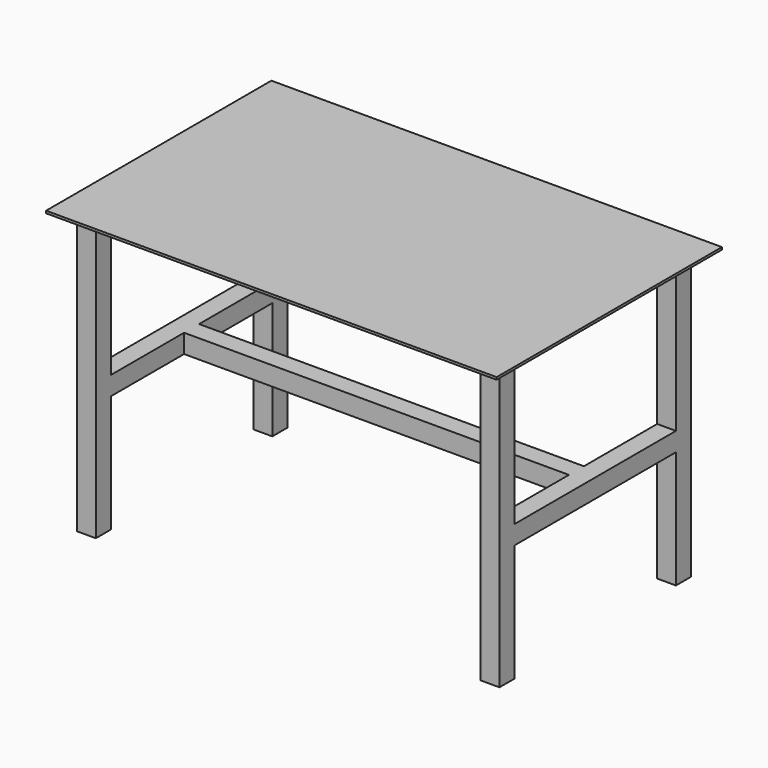
from build123d import *

# Parameters (mm, degrees)
F0_W     = 1219.2
F0_H     = 762
F1_DEPTH = 6.35
F2_W     = 50.8
F2_H     = 50.8
F3_DEPTH = 768.35
F4_W     = 546.1
F4_H     = 50.8
F5_DEPTH = 50.8
F7_W     = 1041.4
F7_H     = 50.8
F8_DEPTH = 50.8


with BuildPart() as f1:
    # F0 (on Top) → F1 (new body)
    with BuildSketch(Plane.XY):
        Rectangle(F0_W, F0_H)
    extrude(amount=F1_DEPTH)

    # F2 (on face) → F3 (join)
    with BuildSketch(Plane(origin=(0, 0, 0), x_dir=(1, 0, 0), z_dir=(0, 0, -1))):
        with Locations((546.1, -298.45)):
            Rectangle(F2_W, F2_H)
        with Locations((-546.1, -298.45)):
            Rectangle(F2_W, F2_H)
        with Locations((546.1, 298.45)):
            Rectangle(F2_W, F2_H)
        with Locations((-546.1, 298.45)):
            Rectangle(F2_W, F2_H)
    extrude(amount=F3_DEPTH)

    # F4 (on face) → F5 (join)
    with BuildSketch(Plane(origin=(-571.5, 0, 0), x_dir=(0, -1, 0), z_dir=(-1, 0, 0))):
        with Locations((0, -425.45)):
            Rectangle(F4_W, F4_H)
    extrude(amount=-F5_DEPTH)

    # F6: F1 across plane


with BuildPart() as f1_1:
    add(f1.part)
    add(f1.part.mirror(Plane.YZ))

    # F7 (on face) → F8 (join, through all)
    with BuildSketch(Plane(origin=(0, 0, -450.85), x_dir=(1, 0, 0), z_dir=(0, 0, -1))):
        Rectangle(F7_W, F7_H)
    extrude(amount=-F8_DEPTH)


solid = f1_1.part
